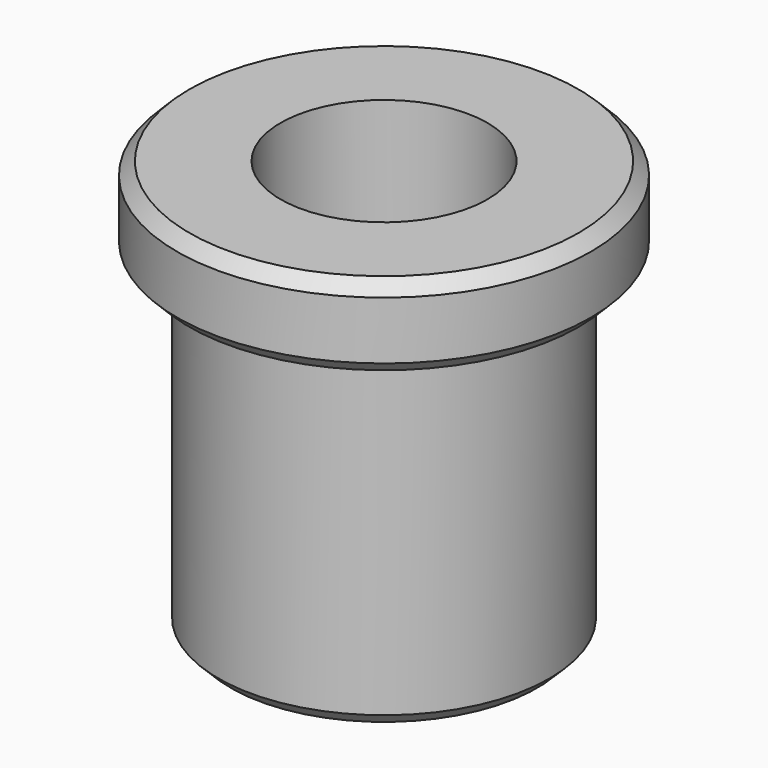
from build123d import *

# Parameters (mm, degrees)
F2_R     = 2.5
F3_DEPTH = 10.001
F4_SIZE  = 0.3


with BuildPart() as f1:
    # F0 (on Front) → F1 (revolve)
    with BuildSketch(Plane.XZ):
        Polygon((0, 0), (0, 2), (-5, 2), (-5, 0), (-4, 0), (-4, -8), (0, -8), align=None)
    revolve(axis=Axis((0, 0, 0.636387), (0, 0, -1)))

    # F2 (on face) → F3 (cut, through all)
    with BuildSketch(Plane.XY.offset(2)):
        Circle(F2_R)
    extrude(amount=-F3_DEPTH, mode=Mode.SUBTRACT)

    # F4
    f4_edges = [f1.edges().sort_by_distance(p)[0] for p in [
        (5, 0, 2),
        (5, 0, 0),
        (4, 0, -8),
    ]]
    chamfer(f4_edges, length=F4_SIZE)


solid = f1.part
